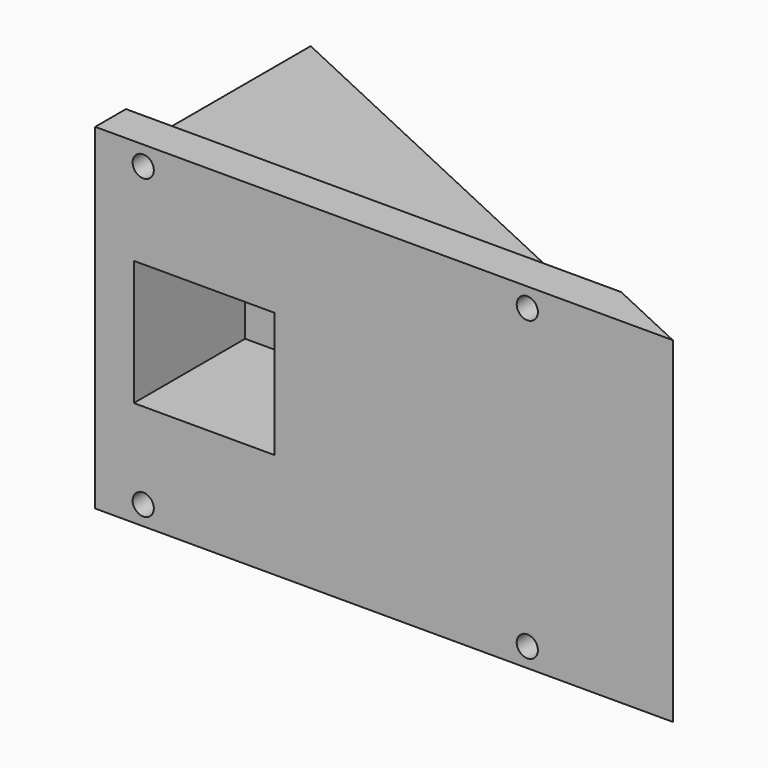
from build123d import *

# Parameters (mm, degrees)
PAD_DEPTH       = 35
POCKET_DEPTH    = 8
POCKET001_DEPTH = 8
SKETCH003_R     = 2.207749
POCKET002_DEPTH = 8.001
SKETCH004_W     = 29.275187
SKETCH004_H     = 26.084862
POCKET003_DEPTH = 29


with BuildPart() as part:
    # Sketch → Pad (new body, symmetric)
    with BuildSketch(Plane.XY):
        Polygon((-37.608468, 25.834033), (-37.608468, -30.264225), (82.694635, -30.264225), align=None)
    extrude(amount=PAD_DEPTH, both=True)

    # Sketch001 → Pocket (cut)
    with BuildSketch(Plane.XY.offset(35)):
        Polygon((-37.608468, 25.834033), (-37.608468, -22.264225), (65.538579, -22.264225), align=None)
    extrude(amount=-POCKET_DEPTH, mode=Mode.SUBTRACT)

    # Sketch002 → Pocket001 (cut)
    with BuildSketch(Plane(origin=(0, 0, -35), x_dir=(1, 0, 0), z_dir=(0, 0, -1))):
        Polygon((65.538579, 22.264225), (-37.608468, 22.264225), (-37.608468, -25.834033), align=None)
    extrude(amount=-POCKET001_DEPTH, mode=Mode.SUBTRACT)

    # Sketch003 → Pocket002 (cut, through all)
    with BuildSketch(Plane(origin=(0, -22.264225, 0), x_dir=(-1, 0, 0), z_dir=(0, 1, 0))):
        with Locations((-52.391532, 31)):
            Circle(SKETCH003_R)
        with Locations((27.608468, 31)):
            Circle(SKETCH003_R)
        with Locations((-52.391532, -31)):
            Circle(SKETCH003_R)
        with Locations((27.608468, -31)):
            Circle(SKETCH003_R)
    extrude(amount=-POCKET002_DEPTH, mode=Mode.SUBTRACT)

    # Sketch004 → Pocket003 (cut)
    with BuildSketch(Plane.XZ.offset(30.264225)):
        with Locations((-14.936289, 0)):
            Rectangle(SKETCH004_W, SKETCH004_H)
    extrude(amount=-POCKET003_DEPTH, mode=Mode.SUBTRACT)


solid = part.part
